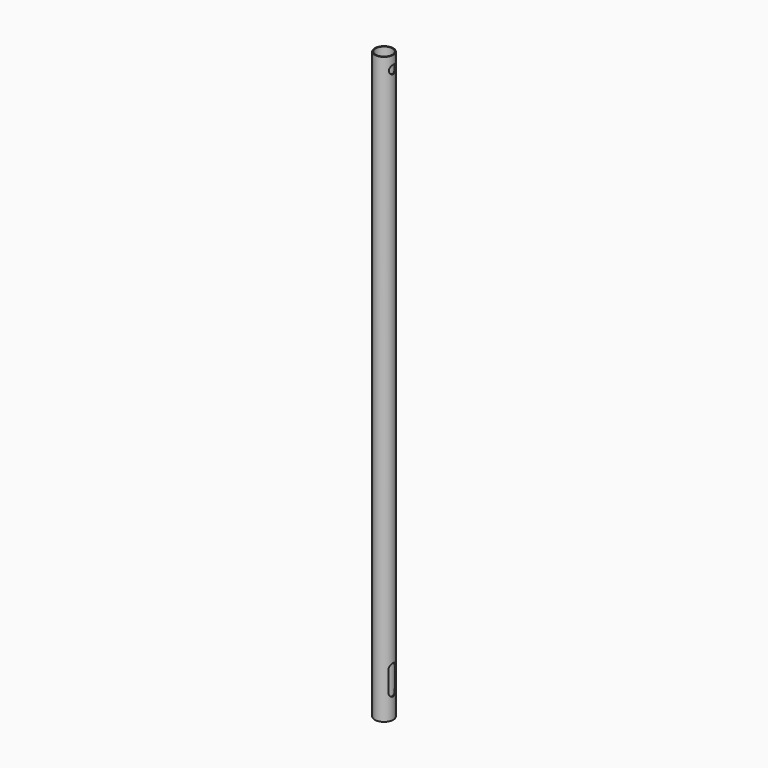
from build123d import *

# Parameters (mm, degrees)
F0_R     = 1.1
F0_R_2   = 1
F1_DEPTH = 69.5
F4_DEPTH = 3.03737
F5_R     = 0.5
F6_DEPTH = 25


with BuildPart() as f1:
    # F0 (on Top) → F1 (new body)
    with BuildSketch(Plane.XY):
        Circle(F0_R)
        Circle(F0_R_2, mode=Mode.SUBTRACT)
    extrude(amount=F1_DEPTH)

    # F3 (on offset) → F4 (cut)
    with BuildSketch(Plane.YZ.offset(-1.1)):
        with BuildLine():
            Line((0.551559, 2.999995), (0.551559, 5.409995))
            ThreePointArc((0.551559, 5.409995), (5e-06, 5.961565), (-0.551559, 5.410005))
            Line((-0.551559, 5.410005), (-0.551559, 3.000005))
            ThreePointArc((-0.551559, 3.000005), (-5e-06, 2.448446), (0.551559, 2.999995))
        make_face()
    extrude(amount=F4_DEPTH, mode=Mode.SUBTRACT)

    # F5 (on offset) → F6 (cut)
    with BuildSketch(Plane.YZ.offset(-1.1)):
        with Locations((0, 68)):
            Circle(F5_R)
    extrude(amount=F6_DEPTH, mode=Mode.SUBTRACT)


solid = f1.part
